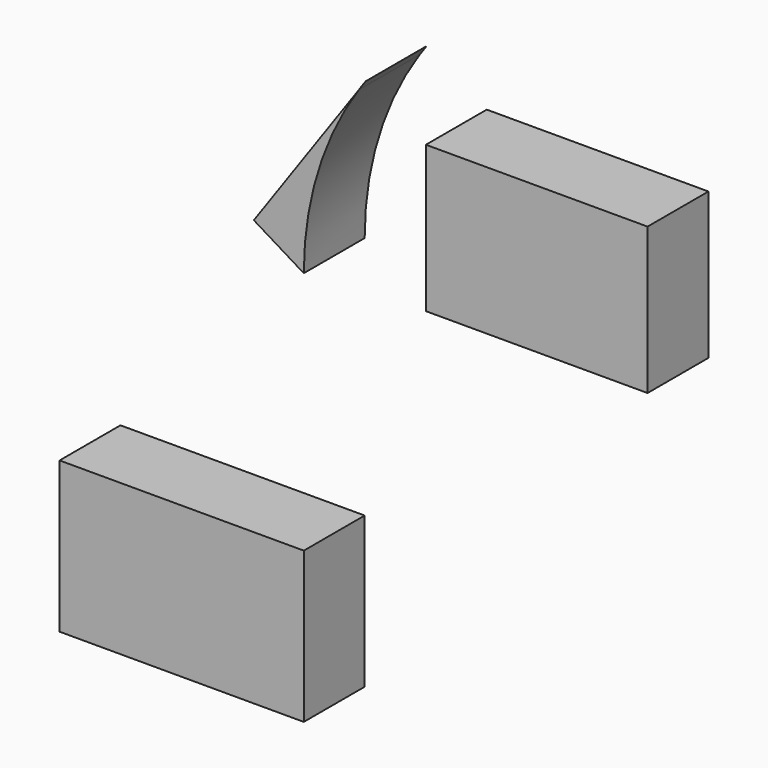
from build123d import *

# Parameters (mm, degrees)
F0_W     = 81.534
F0_H     = 50.34545
F1_DEPTH = 25.4


with BuildPart() as f1:
    # F0 (on Front) → F1 (new body)
    with BuildSketch(Plane.XZ):
        Polygon((155.541811, 157.736965), (86.099056, 157.736965), (81.534026, 157.736965), (81.534026, 108.81655), (155.541811, 108.81655), align=None)
        with BuildLine():
            ThreePointArc((61.460019, 169.87858), (60.276794, 168.233799), (59.124993, 166.566862))
            Line((59.124993, 166.566862), (61.460019, 169.87858))
        make_face()
        with BuildLine():
            Line((24.08776, 116.874295), (40.767, 106.706725))
            ThreePointArc((40.767, 106.706725), (45.459618, 138.012682), (59.124993, 166.566862))
            Line((59.124993, 166.566862), (24.08776, 116.874295))
        make_face()
        Rectangle(F0_W, F0_H)
    extrude(amount=F1_DEPTH)


solid = f1.part
